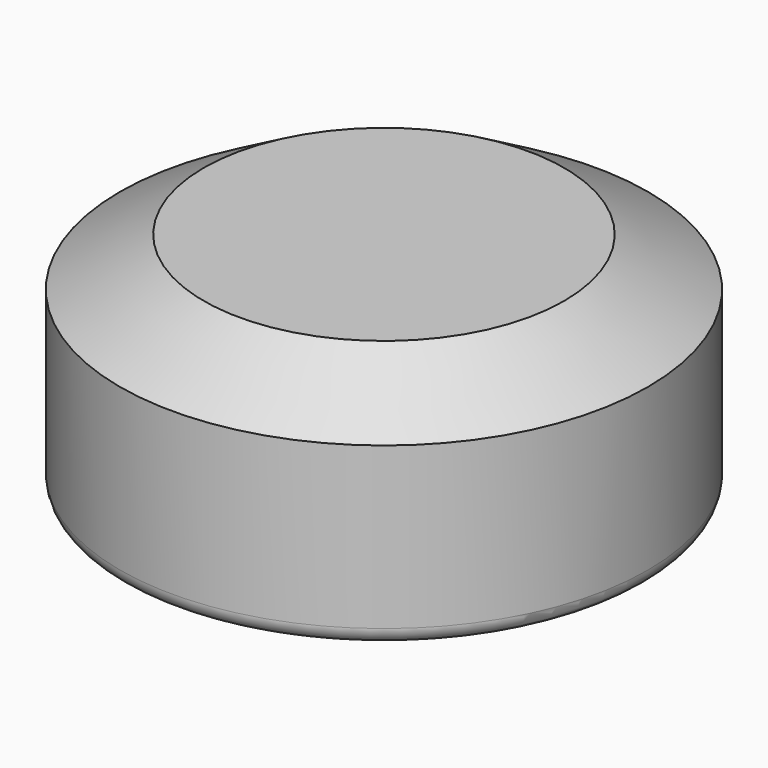
from build123d import *

# Parameters (mm, degrees)
F0_R     = 31.5
F1_DEPTH = 27
F2_SIZE2 = 5.7735026919
F2_SIZE  = 10
F3_R     = 2


with BuildPart() as f1:
    # F0 (on Top) → F1 (new body)
    with BuildSketch(Plane.XY):
        Circle(F0_R)
    extrude(amount=F1_DEPTH)

    # F2
    f2_edges = [f1.edges().sort_by_distance(p)[0] for p in [
        (-31.5, 0, 27),
    ]]
    f2_side = f1.faces().sort_by_distance((0, 0, 27))[0]
    chamfer(f2_edges, length=F2_SIZE, length2=F2_SIZE2, reference=f2_side)

    # F3
    f3_edges = [f1.edges().sort_by_distance(p)[0] for p in [
        (-31.5, 0, 0),
    ]]
    fillet(f3_edges, radius=F3_R)


solid = f1.part
